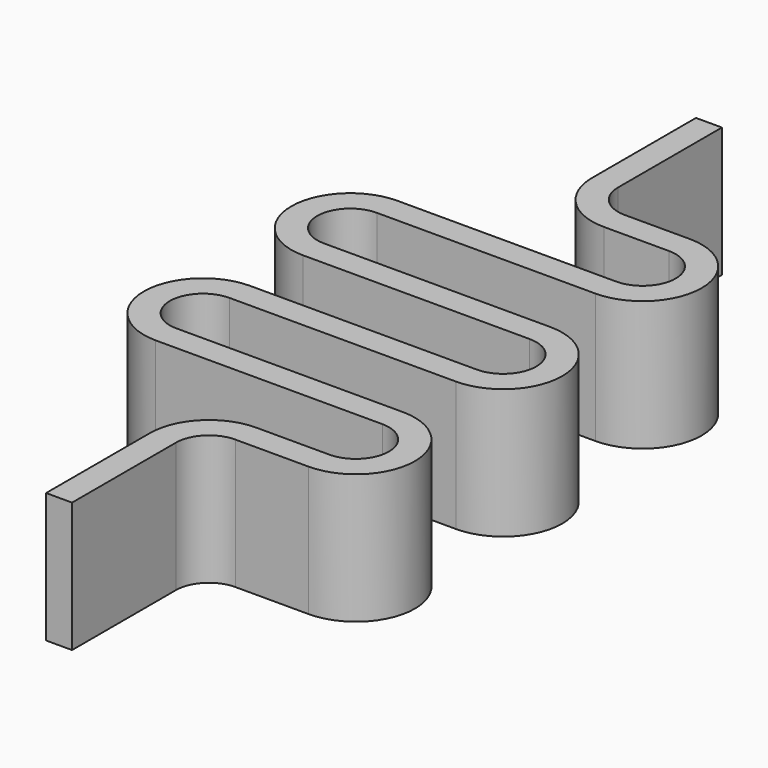
from build123d import *

# Parameters (mm, degrees)
PAD_DEPTH = 10


with BuildPart() as part:
    # Sketch → Pad (new body)
    with BuildSketch(Plane.XY):
        with BuildLine():
            ThreePointArc((-8.268256, 22.633972), (-12.815763, 18.086465), (-8.268256, 13.538958))
            Line((9.182689, 13.538958), (-8.268256, 13.538958))
            ThreePointArc((9.182689, 8.443945), (11.730196, 10.991452), (9.182689, 13.538958))
            Line((9.182689, 8.443945), (3.547507, 8.443945))
            ThreePointArc((3.547507, 8.443945), (0.331934, 7.112011), (-1, 3.896438))
            Line((-1, -6.103562), (-1, 3.896438))
            Line((1, -6.103562), (-1, -6.103562))
            Line((1, 3.896438), (1, -6.103562))
            ThreePointArc((3.547507, 6.443945), (1.746147, 5.697797), (1, 3.896438))
            Line((3.547507, 6.443945), (9.182689, 6.443945))
            ThreePointArc((9.182689, 6.443945), (13.730196, 10.991452), (9.182689, 15.538958))
            Line((-8.268256, 15.538958), (9.182689, 15.538958))
            ThreePointArc((-8.268256, 20.633972), (-10.815763, 18.086465), (-8.268256, 15.538958))
            Line((-8.268256, 20.633972), (9.182689, 20.633972))
            ThreePointArc((9.182689, 20.633972), (13.730196, 25.181478), (9.182689, 29.728985))
            Line((-8.268256, 29.728985), (9.182689, 29.728985))
            ThreePointArc((-8.268256, 34.823999), (-10.815763, 32.276492), (-8.268256, 29.728985))
            Line((-8.268256, 34.823999), (8.568406, 34.823999))
            ThreePointArc((8.568406, 34.823999), (13.115912, 39.371505), (8.568406, 43.919012))
            Line((8.568406, 43.919012), (3.547507, 43.919012))
            ThreePointArc((1, 46.466519), (1.746147, 44.66516), (3.547507, 43.919012))
            Line((1, 56.466519), (1, 46.466519))
            Line((-1, 56.466519), (1, 56.466519))
            Line((-1, 46.466519), (-1, 56.466519))
            ThreePointArc((-1, 46.466519), (0.331934, 43.250946), (3.547507, 41.919012))
            Line((8.568406, 41.919012), (3.547507, 41.919012))
            ThreePointArc((8.568406, 36.823999), (11.115912, 39.371505), (8.568406, 41.919012))
            Line((-8.268256, 36.823999), (8.568406, 36.823999))
            ThreePointArc((-8.268256, 36.823999), (-12.815763, 32.276492), (-8.268256, 27.728985))
            Line((9.182689, 27.728985), (-8.268256, 27.728985))
            ThreePointArc((9.182689, 22.633972), (11.730196, 25.181478), (9.182689, 27.728985))
            Line((-8.268256, 22.633972), (9.182689, 22.633972))
        make_face()
    extrude(amount=PAD_DEPTH)


solid = part.part
